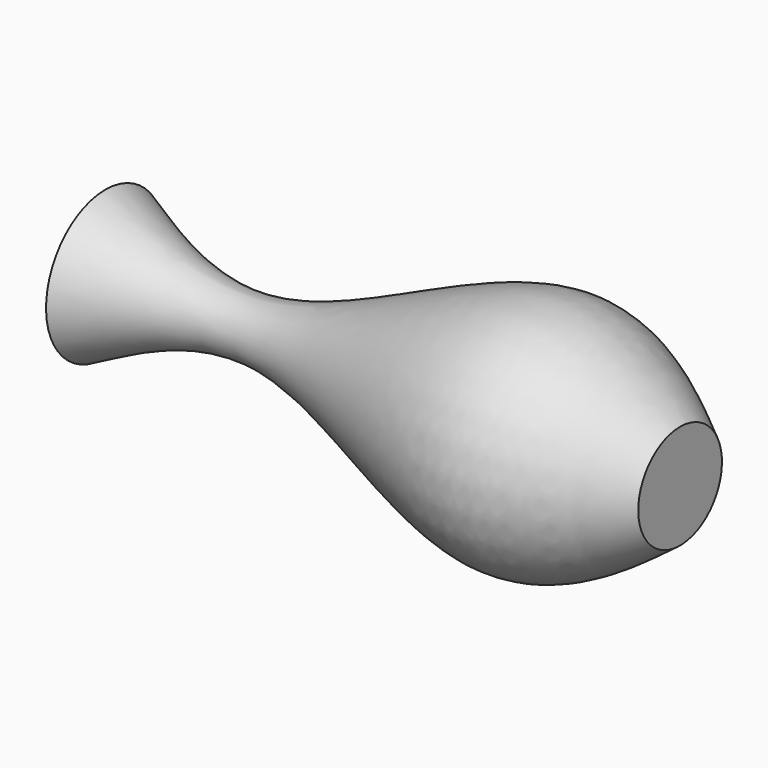
from build123d import *

# Parameters (mm, degrees)
F2_T = -1.5


with BuildPart() as f1:
    # F0 (on Front) → F1 (revolve)
    with BuildSketch(Plane.XZ):
        with BuildLine():
            add(Edge.make_bspline(
                [(-65.7353997231, 17.4207091331), (-53.5436726028, 11.1582255501), (-26.1319401325, -2.9222671384), (34.3324002631, 38.6641100718), (58.7202801806, 20.3149032942), (69.3814978004, 12.2935054824)],
                knots=[0, 0, 0, 0, 0.3107534361, 0.6986942844, 1, 1, 1, 1], degree=3))
            Line((-65.7353997231, 17.4207091331), (-65.7353997231, 0))
            Line((-65.7353997231, 0), (69.3814978004, 0))
            Line((69.3814978004, 0), (69.3814978004, 12.2935054824))
        make_face()
    revolve(axis=Axis((1.8230490386, 0, 0), (-1, 0, 0)))

    # F2
    f2_openings = [f1.faces().sort_by_distance(p)[0] for p in [
        (-65.7354, 0, 0),
    ]]
    offset(amount=F2_T, openings=f2_openings)


solid = f1.part
